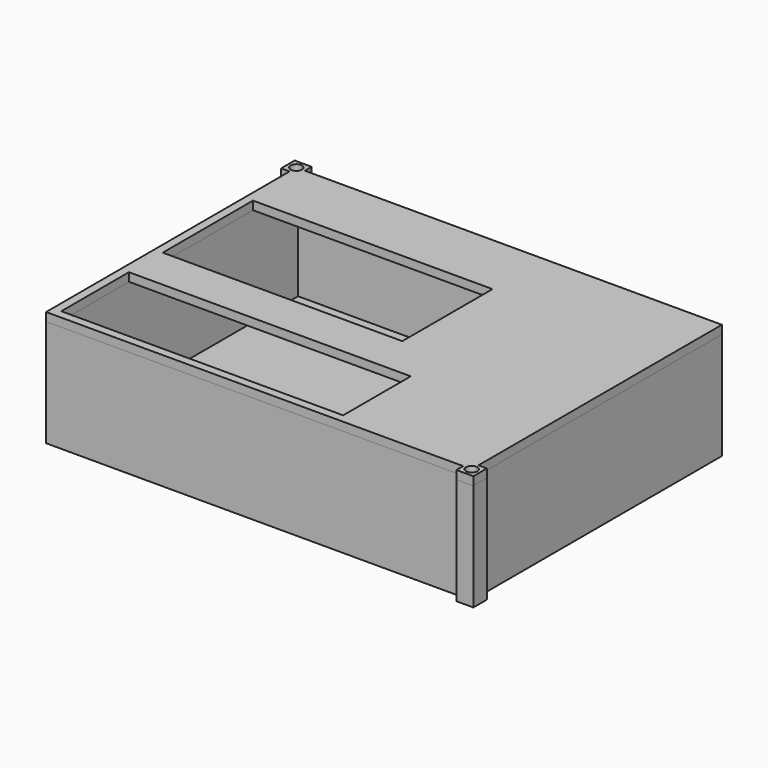
from build123d import *

# Parameters (mm, degrees)
SKETCH003_R      = 2
EXTRUDE003_DEPTH = 35
SKETCH002_W      = 100
SKETCH002_H      = 30
SKETCH002_W_2    = 85
SKETCH002_H_2    = 40
EXTRUDE002_DEPTH = 3
EXTRUDE_DEPTH    = 3
EXTRUDE004_DEPTH = 35
SKETCH001_W      = 145
SKETCH001_H      = 105
EXTRUDE001_DEPTH = 35


with BuildPart() as screwstop:
    # Sketch003 (on Face22 of Extrude002) → Extrude003 (new body)
    with BuildSketch(Plane.XY.offset(41)):
        with Locations((151, 0)):
            Circle(SKETCH003_R)
        with Locations((0, 111)):
            Circle(SKETCH003_R)
    extrude(amount=-EXTRUDE003_DEPTH)


with BuildPart() as obj1:
    # Sketch002 (on Face18 of Extrude001) → Extrude002 (new body)
    with BuildSketch(Plane.XY.offset(38)):
        Polygon((154, 3), (154, -3), (148, -3), (148, 0), (0, 0), (0, 108), (-3, 108), (-3, 114), (3, 114), (3, 111), (151, 111), (151, 3), align=None)
        with Locations((53, 18)):
            Rectangle(SKETCH002_W, SKETCH002_H, mode=Mode.SUBTRACT)
        with Locations((45.5, 68)):
            Rectangle(SKETCH002_W_2, SKETCH002_H_2, mode=Mode.SUBTRACT)
    extrude(amount=EXTRUDE002_DEPTH)

    # Cut: cut ScrewsTop
    add(screwstop.part, mode=Mode.SUBTRACT)


with BuildPart() as base:
    # Sketch → Extrude (new body)
    with BuildSketch(Plane.XY):
        Polygon((154, 3), (154, -3), (148, -3), (148, 0), (0, 0), (0, 108), (-3, 108), (-3, 114), (3, 114), (3, 111), (151, 111), (151, 3), align=None)
    extrude(amount=EXTRUDE_DEPTH)


with BuildPart() as screwswalls:
    # Sketch003 (on Face22 of Extrude002) → Extrude004 (new body)
    with BuildSketch(Plane.XY.offset(41)):
        with Locations((151, 0)):
            Circle(SKETCH003_R)
        with Locations((0, 111)):
            Circle(SKETCH003_R)
    extrude(amount=-EXTRUDE004_DEPTH)


with BuildPart() as basewallsscrews:
    # Sketch001 (on Face14 of Extrude) → Extrude001 (new body)
    with BuildSketch(Plane.XY.offset(3)):
        Polygon((154, 3), (154, -3), (148, -3), (148, 0), (0, 0), (0, 108), (-3, 108), (-3, 114), (3, 114), (3, 111), (151, 111), (151, 3), align=None)
        with Locations((75.5, 55.5)):
            Rectangle(SKETCH001_W, SKETCH001_H, mode=Mode.SUBTRACT)
    extrude(amount=EXTRUDE001_DEPTH)

    # Cut001: cut ScrewsWalls
    add(screwswalls.part, mode=Mode.SUBTRACT)

    # Fusion: union Base
    add(base.part)


solid = Compound([obj1.part, basewallsscrews.part])
